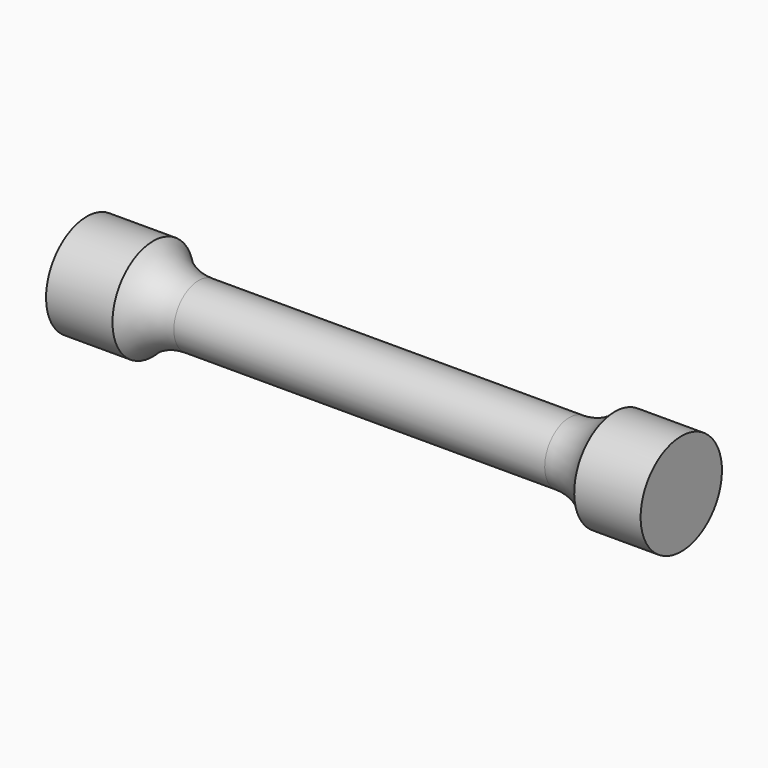
from build123d import *


with BuildPart() as f1:
    # F0 (on Front) → F1 (revolve)
    with BuildSketch(Plane.XZ):
        with BuildLine():
            Line((12, 2), (0, 2))
            Line((0, 2), (-12, 2))
            ThreePointArc((-12, 2), (-13.605908, 2.336524), (-14.941603, 3.28947))
            Line((-14.941603, 3.28947), (-19.239565, 3.28947))
            Line((-19.239565, 3.28947), (-19.239565, 0))
            Line((-19.239565, 0), (0, 0))
            Line((0, 0), (19.239565, 0))
            Line((19.239565, 0), (19.239565, 3.28947))
            Line((19.239565, 3.28947), (14.941603, 3.28947))
            ThreePointArc((14.941603, 3.28947), (13.605908, 2.336524), (12, 2))
        make_face()
    revolve(axis=Axis((-9.619783, 0, 0), (1, 0, 0)))


solid = f1.part
